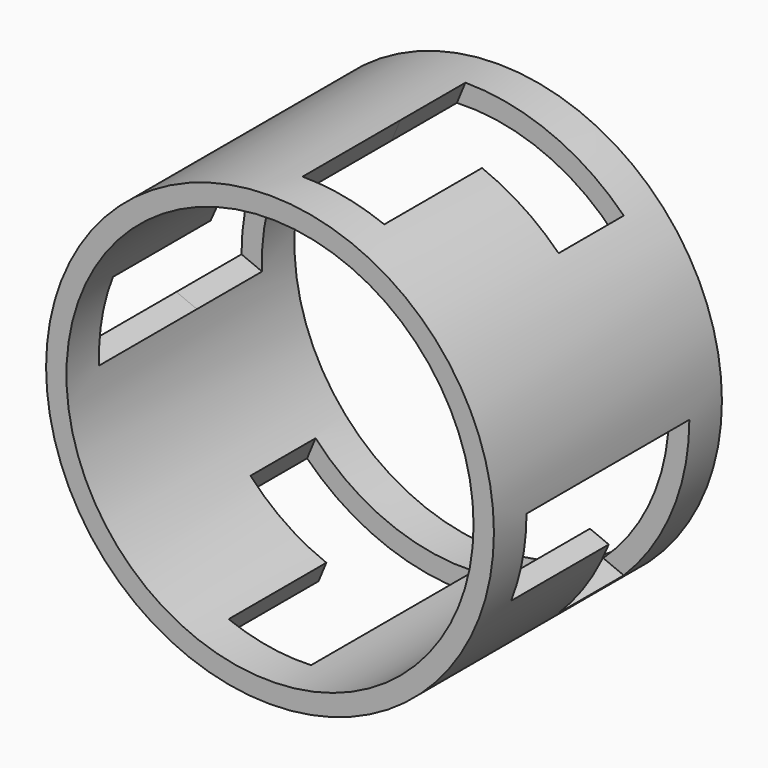
from build123d import *

# Parameters (mm, degrees)
F0_R     = 34.925
F0_R_2   = 31.75
F1_DEPTH = 44.45
F5_DEPTH = 12.7
F8_DEPTH = 19.05


with BuildPart() as f1:
    # F0 (on Front) → F1 (new body)
    with BuildSketch(Plane.XZ):
        Circle(F0_R)
        Circle(F0_R_2, mode=Mode.SUBTRACT)
    extrude(amount=F1_DEPTH)

    # F4 (on offset) → F5 (cut)
    with BuildSketch(Plane.XZ.offset(6.35)):
        Polygon((-29.058365, -2.43004), (-18.829069, 22.265665), (-27.629022, 25.910724), (-37.858318, 1.21502), align=None)
        Polygon((25.910724, 27.629022), (1.21502, 37.858318), (-2.43004, 29.058365), (22.265665, 18.829069), align=None)
        Polygon((29.058365, 2.43004), (18.829069, -22.265665), (27.629022, -25.910724), (37.858318, -1.21502), align=None)
        Polygon((2.43004, -29.058365), (-22.265665, -18.829069), (-25.910724, -27.629022), (-1.21502, -37.858318), align=None)
    extrude(amount=F5_DEPTH, mode=Mode.SUBTRACT)

    # F7 (on offset) → F8 (cut)
    with BuildSketch(Plane.XZ.offset(19.05)):
        Polygon((0, 34.925), (-2.430039, 29.058366), (9.303231, 24.198287), (12.94829, 32.998238), (1.21502, 37.858318), align=None)
        Polygon((-34.925, 0), (-29.058366, -2.430039), (-24.198287, 9.303231), (-32.998238, 12.94829), (-37.858318, 1.21502), align=None)
        Polygon((0, -34.925), (2.430039, -29.058366), (-9.303231, -24.198287), (-12.94829, -32.998238), (-1.21502, -37.858318), align=None)
        Polygon((34.925, 0), (29.058366, 2.430039), (24.198287, -9.303231), (32.998238, -12.94829), (37.858318, -1.21502), align=None)
    extrude(amount=F8_DEPTH, mode=Mode.SUBTRACT)


solid = f1.part
